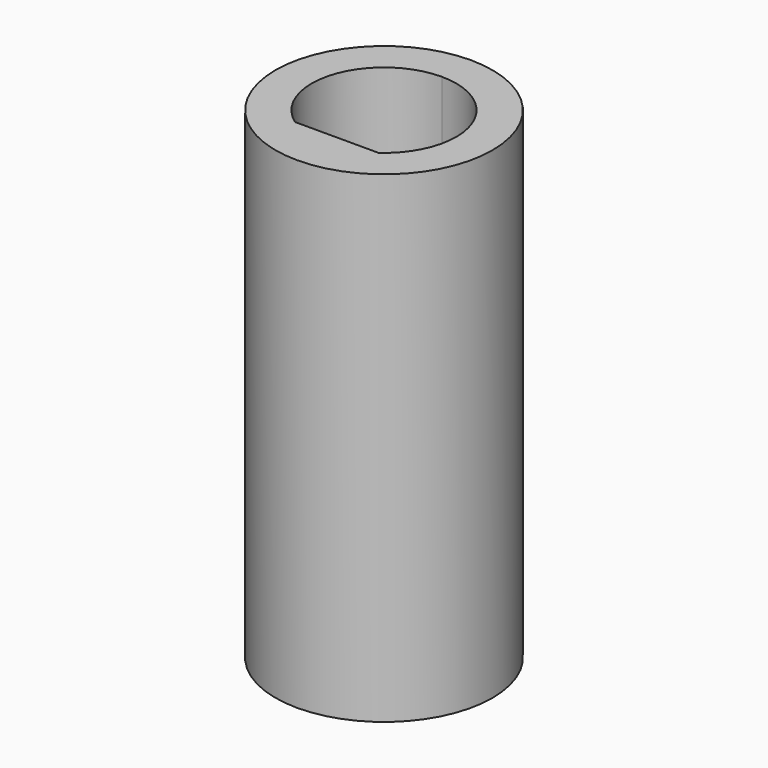
from build123d import *

# Parameters (mm, degrees)
PAD_DEPTH    = 20
PAD001_DEPTH = 20


with BuildPart() as part:
    # Sketch001 → Pad (new body)
    with BuildSketch(Plane.XY):
        with BuildLine():
            ThreePointArc((3.462658, -4.9), (5.718391, 1.81659), (0, 6))
            Line((0, 6), (0, 9))
            ThreePointArc((0, -9), (9, 0), (0, 9))
            Line((0, -4.9), (0, -9))
            Line((3.462658, -4.9), (0, -4.9))
        make_face()
    pad = extrude(amount=PAD_DEPTH)

    # Sketch002 → Pad001 (join)
    with BuildSketch(Plane.XY):
        with BuildLine():
            ThreePointArc((2.12132, -3.45), (3.897114, 1.10227), (0, 4.05))
            Line((0, 4.05), (0, 9))
            ThreePointArc((0, -9), (9, 0), (0, 9))
            Line((0, -3.45), (0, -9))
            Line((2.12132, -3.45), (0, -3.45))
        make_face()
    pad001 = extrude(amount=-PAD001_DEPTH)

    # Mirrored: Pad, Pad001 across Sketch001 V_Axis
    add(pad.mirror(Plane(origin=(0, 0, 0), x_dir=(0, 0, 1), z_dir=(1, 0, 0))))
    add(pad001.mirror(Plane(origin=(0, 0, 0), x_dir=(0, 0, 1), z_dir=(1, 0, 0))))


solid = part.part
